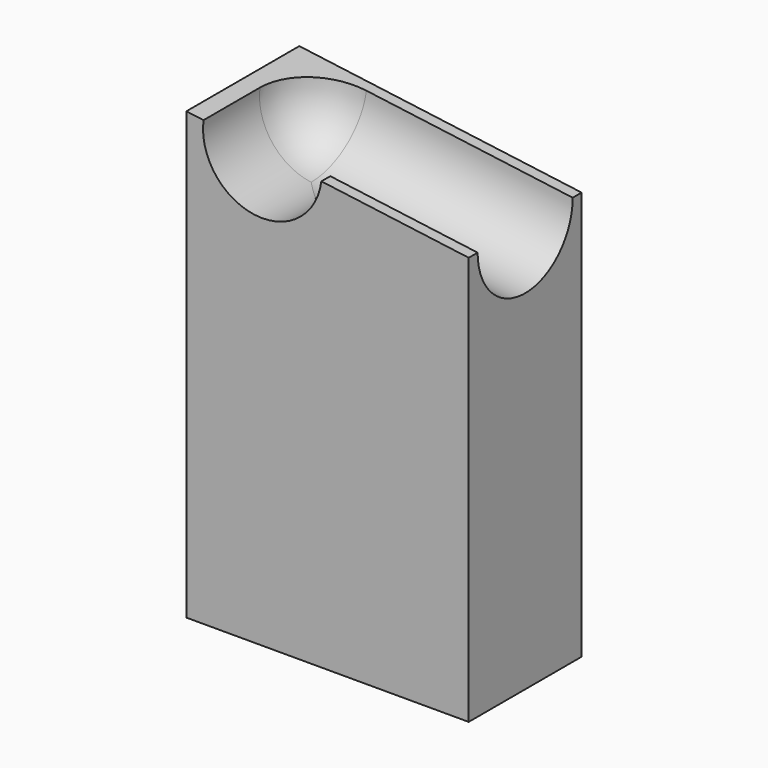
from build123d import *

# Parameters (mm, degrees)
F1_DEPTH = 19
F4_DEPTH = 28
F9_DEPTH = 9.5


with BuildPart() as f1:
    # F0 (on Front) → F1 (new body)
    with BuildSketch(Plane.XZ):
        Polygon((-38, 0), (0, 0), (0, 55), (-38, 60), align=None)
    extrude(amount=-F1_DEPTH)

    # F3 (on 3pt) → F4 (cut, symmetric)
    with BuildSketch(Plane(origin=(-7.1136827774, 0, 0.9360108918), x_dir=(0, -1, 0), z_dir=(-0.9914542955, 0, 0.1304545126))):
        with BuildLine():
            Line((-1.5, 54.5299862548), (-17.5, 54.5299862548))
            ThreePointArc((-17.5, 54.5299862548), (-9.5, 46.5299862548), (-1.5, 54.5299862548))
        make_face()
    extrude(amount=F4_DEPTH, both=True, mode=Mode.SUBTRACT)

    # F6 (on offset) → F7 (revolve, cut)
    with BuildSketch(Plane(origin=(-34.8744030526, 0, 4.5887372438), x_dir=(0, 1, 0), z_dir=(0.9914542955, 0, -0.1304545126))):
        with BuildLine():
            ThreePointArc((9.5, 46.5299862548), (15.1568542495, 48.8731320053), (17.5, 54.5299862548))
            Line((17.5, 54.5299862548), (9.5, 54.5299862548))
            Line((9.5, 54.5299862548), (9.5, 46.5299862548))
        make_face()
    revolve(axis=Axis((-28.2825383255, 9.5, 54.6869091698), (0.1304545126, 0, 0.9914542955)), mode=Mode.SUBTRACT)

    # F8 (on Front) → F9 (cut)
    with BuildSketch(Plane.XZ):
        with BuildLine():
            ThreePointArc((-35.6923546395, 59.6963624526), (-28.8043563758, 50.7210919877), (-19.8290859109, 57.6090902514))
            Line((-19.8290859109, 57.6090902514), (-35.6923546395, 59.6963624526))
        make_face()
    extrude(amount=-F9_DEPTH, mode=Mode.SUBTRACT)


solid = f1.part
